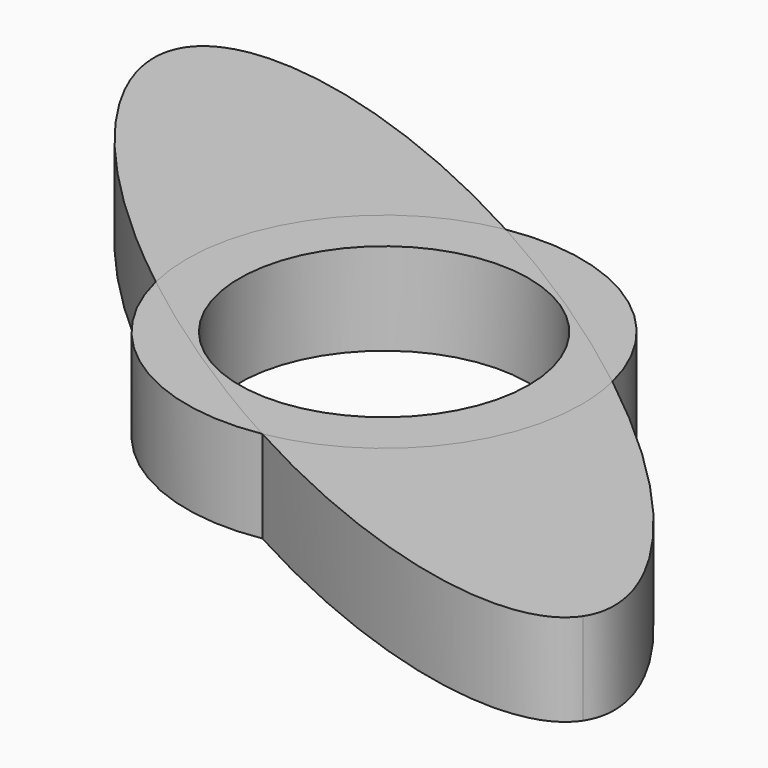
from build123d import *

# Parameters (mm, degrees)
F0_R     = 15
F0_R_2   = 11
F1_DEPTH = 7
F3_DEPTH = 7
F4_DEPTH = 25.4


with BuildPart() as f1:
    # F0 (on Top) → F1 (new body)
    with BuildSketch(Plane.XY):
        Circle(F0_R)
        Circle(F0_R_2, mode=Mode.SUBTRACT)
    extrude(amount=F1_DEPTH)

    # F2 (on Top) → F3 (join)
    with BuildSketch(Plane.XY):
        with BuildLine():
            add(Edge.make_bspline(
                [(32.078598, -21.168148), (42.894787, -4.777098), (-10.631204, 18.779599), (-64.157195, 42.336296), (-21.447393, 2.388549), (21.262409, -37.559198), (32.078598, -21.168148)],
                knots=[0, 0, 0, 2.094395, 2.094395, 4.18879, 4.18879, 6.283185, 6.283185, 6.283185], degree=2, weights=[1, 0.5, 1, 0.5, 1, 0.5, 1]))
        make_face()
    extrude(amount=F3_DEPTH)

    # F0 (on Top) → F4 (cut)
    with BuildSketch(Plane.XY):
        Circle(F0_R_2)
    extrude(amount=F4_DEPTH, mode=Mode.SUBTRACT)


solid = f1.part
